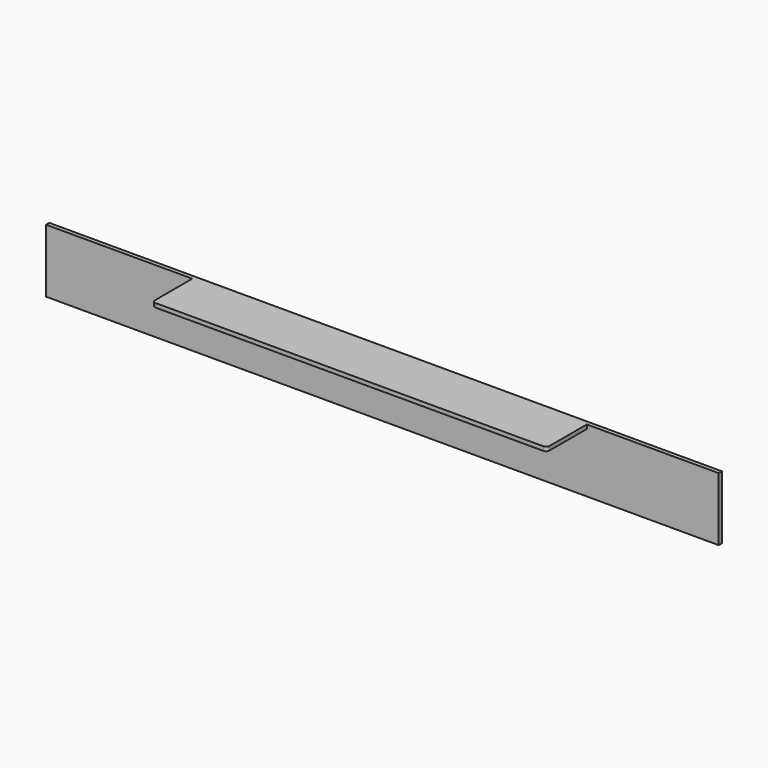
from build123d import *

# Parameters (mm, degrees)
F0_W     = 117.3113062978
F0_H     = 14.8764327168
F1_DEPTH = 1.2
F2_R     = 1
F4_DEPTH = 1.2


with BuildPart() as f1:
    # F0 (on Top) → F1 (new body)
    with BuildSketch(Plane.XY):
        with Locations((2.1252036095, -7.4382163584)):
            Rectangle(F0_W, F0_H)
    extrude(amount=-F1_DEPTH)

    # F2
    f2_edges = [f1.edges().sort_by_distance(p)[0] for p in [
        (-56.53045, -14.876433, -0.6),
        (60.780857, -14.876433, -0.6),
    ]]
    fillet(f2_edges, radius=F2_R)

    # F3 (on face) → F4 (join)
    with BuildSketch(Plane(origin=(0, 0, 0), x_dir=(-1, 0, 0), z_dir=(0, 1, 0))):
        Polygon((-60.7808567584, -1.2), (-60.7808567584, 0), (-100, 0), (-100, -18.8519991934), (100, -18.8519991934), (100, 0), (56.5304495394, 0), (56.5304495394, -1.2), align=None)
        Polygon((56.5304495394, 0), (0, 0), (-60.7808567584, 0), (-60.7808567584, -1.2), (56.5304495394, -1.2), align=None)
    extrude(amount=F4_DEPTH)


solid = f1.part
